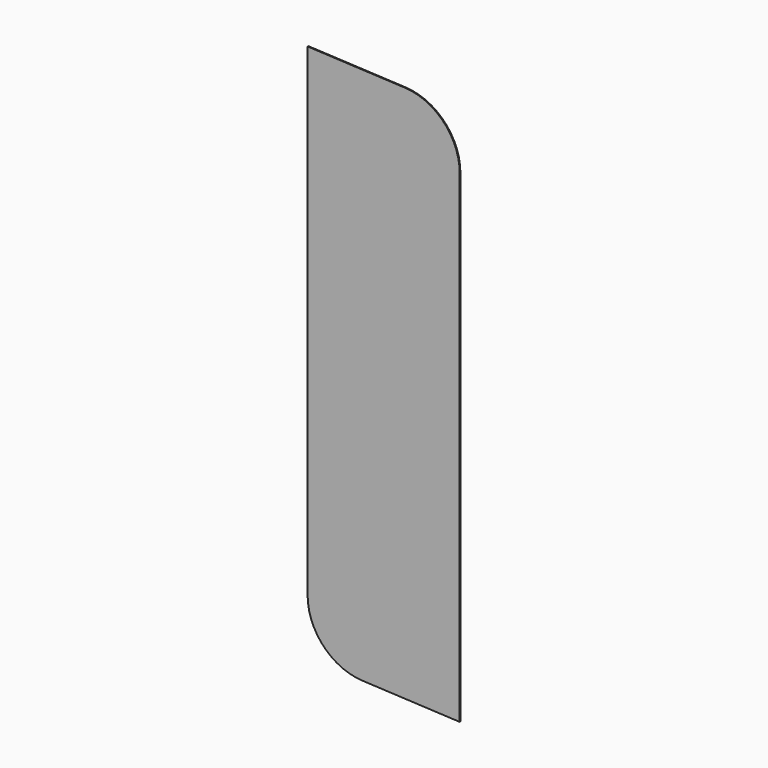
from build123d import *

# Parameters (mm, degrees)
F1_DEPTH = 3


with BuildPart() as f1:
    # F0 (on Front) → F1 (new body)
    with BuildSketch(Plane.XZ):
        with BuildLine():
            Line((190.392517, 16.33272), (530, 0))
            Line((530, 0), (530, 1683.898172))
            ThreePointArc((530, 1683.898172), (474.778273, 1821.880967), (339.607483, 1883.66728))
            Line((339.607483, 1883.66728), (0, 1900))
            Line((0, 1900), (0, 216.101828))
            ThreePointArc((0, 216.101828), (55.221727, 78.119033), (190.392517, 16.33272))
        make_face()
    extrude(amount=F1_DEPTH)


solid = f1.part
